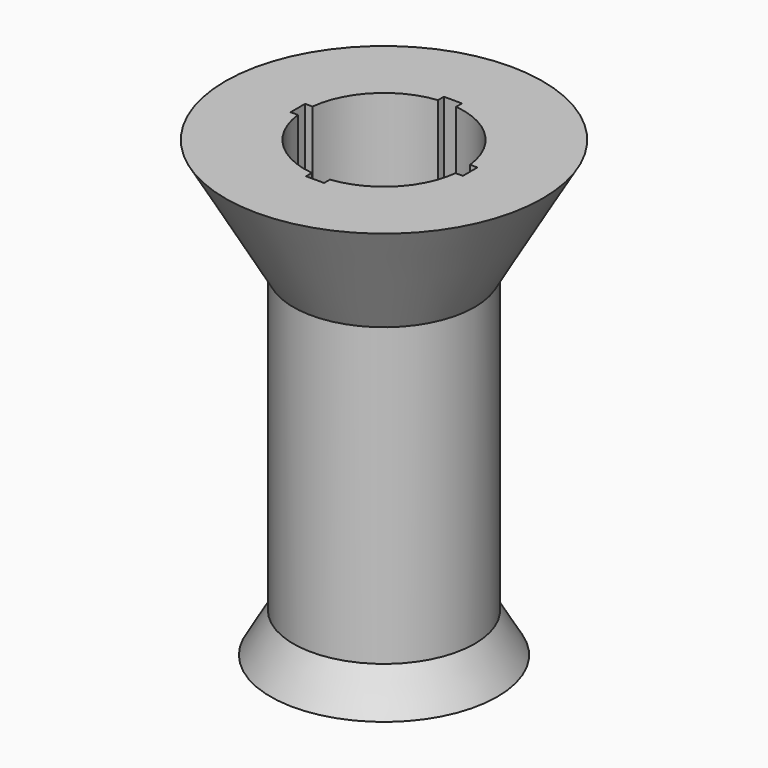
from build123d import *

# Parameters (mm, degrees)
F0_R     = 20
F1_DEPTH = 100


with BuildPart() as f1:
    # F0 (on Top) → F1 (new body)
    with BuildSketch(Plane.XY):
        Circle(F0_R)
        with BuildLine():
            ThreePointArc((2, 17.385339), (12.374369, 12.374369), (17.385339, 2))
            Line((17.385339, 2), (19, 2))
            Line((19, 2), (19, -2))
            Line((19, -2), (17.385339, -2))
            ThreePointArc((17.385339, -2), (12.374369, -12.374369), (2, -17.385339))
            Line((2, -17.385339), (2, -19))
            Line((2, -19), (-2, -19))
            Line((-2, -19), (-2, -17.385339))
            ThreePointArc((-2, -17.385339), (-12.374369, -12.374369), (-17.385339, -2))
            Line((-17.385339, -2), (-19, -2))
            Line((-19, -2), (-19, 2))
            Line((-19, 2), (-17.385339, 2))
            ThreePointArc((-17.385339, 2), (-12.374369, 12.374369), (-2, 17.385339))
            Line((-2, 17.385339), (-2, 19))
            Line((-2, 19), (2, 19))
            Line((2, 19), (2, 17.385339))
        make_face(mode=Mode.SUBTRACT)
    extrude(amount=F1_DEPTH)

    # F2 (on Front) → F4 (revolve)
    with BuildSketch(Plane.XZ):
        Polygon((35, 100), (20, 100), (20, 74.019238), align=None)
        Polygon((25, 0), (20, 8.660254), (20, 0), align=None)
    revolve(axis=Axis((0, 0, 60.299862), (0, 0, -1)))


solid = f1.part
